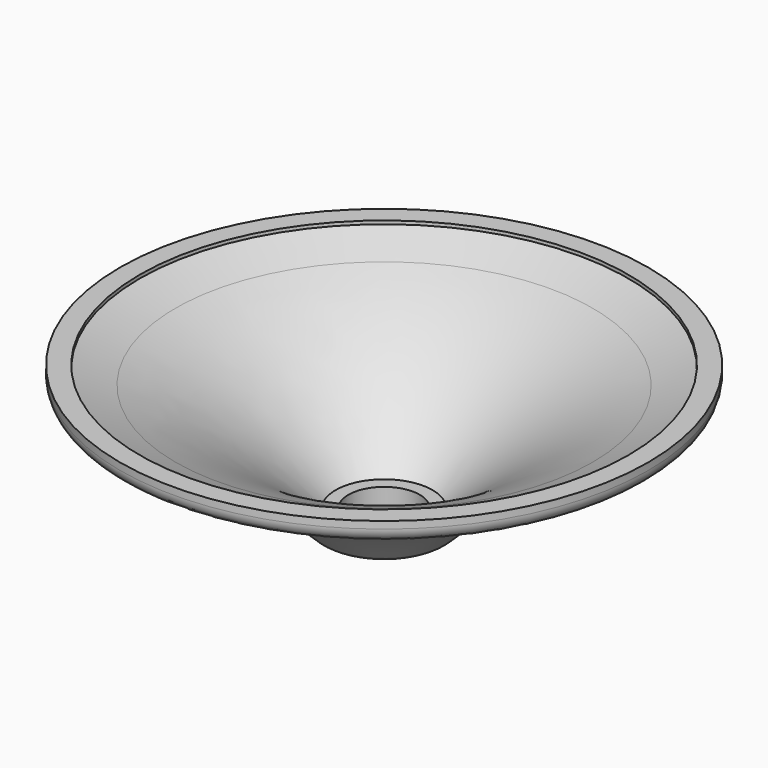
from build123d import *

# Parameters (mm, degrees)
F2_R     = 6.35
F3_DEPTH = 3.176


with BuildPart() as f1:
    # F0 (on Front) → F1 (revolve)
    with BuildSketch(Plane.XZ):
        with BuildLine():
            Line((46.99, -0.126684), (43.486265, -0.126684))
            Line((43.486265, -0.126684), (43.486265, -0.726206))
            Line((43.486265, -0.726206), (37.12316, -3.301684))
            ThreePointArc((37.12316, -3.301684), (21.865608, -11.42293), (8.625946, -22.534136))
            Line((8.625946, -22.534136), (5.715, -22.534136))
            Line((5.715, -22.534136), (0, -22.534136))
            Line((0, -22.534136), (0, -25.526684))
            Line((0, -25.526684), (5.715, -25.526684))
            Line((5.715, -25.526684), (5.874215, -25.526684))
            Line((5.874215, -25.526684), (9.07168, -25.526684))
            ThreePointArc((9.07168, -25.526684), (10.064244, -25.324721), (10.898965, -24.750948))
            ThreePointArc((10.898965, -24.750948), (26.700482, -12.090426), (45.18389, -3.823601))
            ThreePointArc((45.18389, -3.823601), (46.489078, -2.90645), (46.99, -1.391934))
            Line((46.99, -1.391934), (46.99, -0.126684))
        make_face()
        with BuildLine():
            ThreePointArc((5.715, -25.709136), (5.794541, -25.617852), (5.874215, -25.526684))
            Line((5.874215, -25.526684), (5.715, -25.526684))
            Line((5.715, -25.526684), (5.715, -25.709136))
        make_face()
    revolve(axis=Axis((0, 0, -24.03041), (0, 0, -1)))

    # F2 (on face) → F3 (cut, through all)
    with BuildSketch(Plane.XY.offset(-22.534136)):
        Circle(F2_R)
    extrude(amount=-F3_DEPTH, mode=Mode.SUBTRACT)


solid = f1.part
